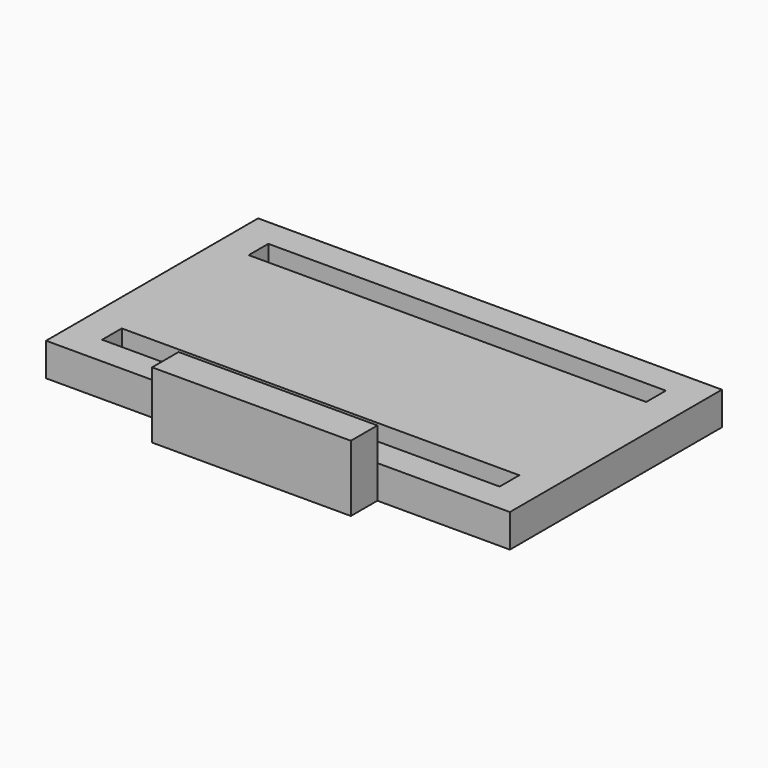
from build123d import *

# Parameters (mm, degrees)
F0_W     = 88.9
F0_H     = 50.8
F0_W_2   = 76.2
F0_H_2   = 4.70328
F1_DEPTH = 6.35
F2_W     = 38.1
F2_H     = 6.35
F3_DEPTH = 6.35
F4_W     = 38.1
F4_H     = 6.35
F5_DEPTH = 6.35


with BuildPart() as f1:
    # F0 (on Top) → F1 (new body)
    with BuildSketch(Plane.XY):
        Rectangle(F0_W, F0_H)
        with Locations((0, -17.556932)):
            Rectangle(F0_W_2, F0_H_2, mode=Mode.SUBTRACT)
        with Locations((0, 17.556932)):
            Rectangle(F0_W_2, F0_H_2, mode=Mode.SUBTRACT)
    extrude(amount=F1_DEPTH)

    # F2 (on face) → F3 (join)
    with BuildSketch(Plane.XZ.offset(25.4)):
        with Locations((0, 3.175)):
            Rectangle(F2_W, F2_H)
    extrude(amount=F3_DEPTH)

    # F4 (on face) → F5 (join)
    with BuildSketch(Plane.XY.offset(6.35)):
        with Locations((0, -28.575)):
            Rectangle(F4_W, F4_H)
    extrude(amount=F5_DEPTH)


solid = f1.part
